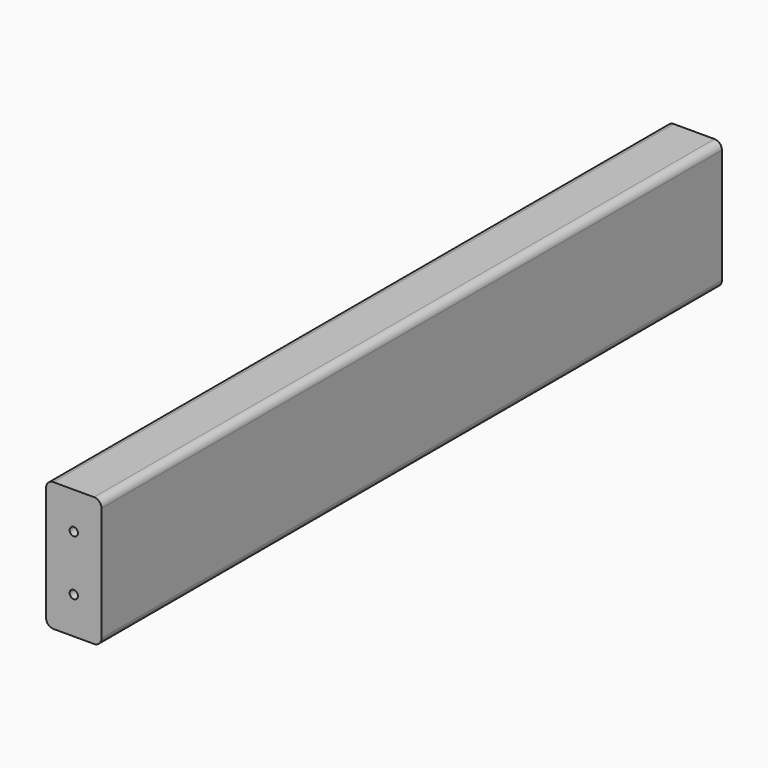
from build123d import *

# Parameters (mm, degrees)
F0_W     = 38.1
F0_H     = 88.9
F1_DEPTH = 533.4
F2_R     = 5.08
F3_R     = 2.8575
F4_DEPTH = 25.4
F5_R     = 2.8575
F6_DEPTH = 25.4


with BuildPart() as f1:
    # F0 (on Front) → F1 (new body)
    with BuildSketch(Plane.XZ):
        Rectangle(F0_W, F0_H)
    extrude(amount=F1_DEPTH)

    # F2
    f2_edges = [f1.edges().sort_by_distance(p)[0] for p in [
        (19.05, -266.7, 44.45),
        (-19.05, -266.7, 44.45),
        (19.05, -266.7, -44.45),
        (-19.05, -266.7, -44.45),
    ]]
    fillet(f2_edges, radius=F2_R)

    # F3 (on face) → F4 (cut)
    with BuildSketch(Plane.XZ.offset(533.4)):
        with Locations((0, -19.05)):
            Circle(F3_R)
        with Locations((0, 19.05)):
            Circle(F3_R)
    extrude(amount=-F4_DEPTH, mode=Mode.SUBTRACT)

    # F5 (on face) → F6 (cut)
    with BuildSketch(Plane(origin=(0, 0, 0), x_dir=(-1, 0, 0), z_dir=(0, 1, 0))):
        with Locations((0, 19.05)):
            Circle(F5_R)
        with Locations((0, -19.05)):
            Circle(F5_R)
    extrude(amount=-F6_DEPTH, mode=Mode.SUBTRACT)


solid = f1.part
